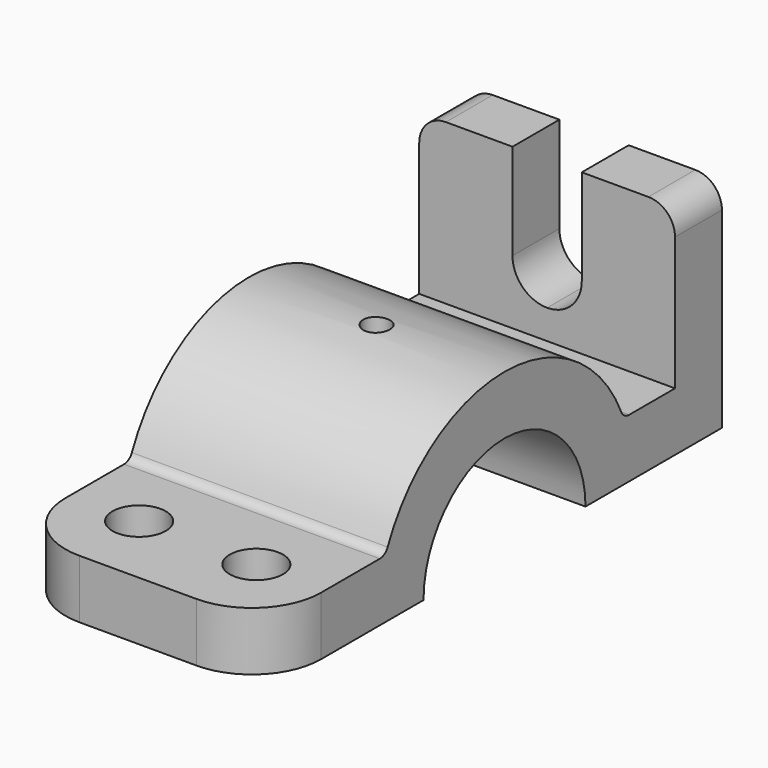
from build123d import *

# Parameters (mm, degrees)
F0_W     = 11
F0_H     = 30
F1_DEPTH = 24
F3_DEPTH = 11
F4_R     = 2.5
F4_R_2   = 5
F5_DEPTH = 41.001
F6_R     = 13
F7_R     = 5
F8_R     = 2


with BuildPart() as f1:
    # F0 (on Right) → F1 (new body, symmetric)
    with BuildSketch(Plane.YZ):
        with Locations((45.5, 26)):
            Rectangle(F0_W, F0_H)
        with BuildLine():
            ThreePointArc((27.9105714739, 11), (29.4730143031, 5.5983415304), (30, 0))
            Line((30, 0), (51, 0))
            Line((51, 0), (51, 11))
            Line((51, 11), (40, 11))
            Line((40, 11), (27.9105714739, 11))
        make_face()
        with BuildLine():
            ThreePointArc((-15.4919333848, 11), (0, 19), (15.4919333848, 11))
            Line((15.4919333848, 11), (27.9105714739, 11))
            ThreePointArc((27.9105714739, 11), (0, 30), (-27.9105714739, 11))
            Line((-27.9105714739, 11), (-15.4919333848, 11))
        make_face()
        with BuildLine():
            ThreePointArc((15.4919333848, 11), (18.1017503893, 5.7729223833), (19, 0))
            Line((19, 0), (30, 0))
            ThreePointArc((30, 0), (29.4730143031, 5.5983415304), (27.9105714739, 11))
            Line((27.9105714739, 11), (15.4919333848, 11))
        make_face()
        with BuildLine():
            Line((-30, 0), (-19, 0))
            ThreePointArc((-19, 0), (-18.1017503893, 5.7729223833), (-15.4919333848, 11))
            Line((-15.4919333848, 11), (-27.9105714739, 11))
            ThreePointArc((-27.9105714739, 11), (-29.4730143031, 5.5983415304), (-30, 0))
        make_face()
        with BuildLine():
            Line((-56, 0), (-30, 0))
            ThreePointArc((-30, 0), (-29.4730143031, 5.5983415304), (-27.9105714739, 11))
            Line((-27.9105714739, 11), (-56, 11))
            Line((-56, 11), (-56, 0))
        make_face()
    extrude(amount=F1_DEPTH, both=True)

    # F2 (on face) → F3 (cut, through all)
    with BuildSketch(Plane(origin=(0, 51, 0), x_dir=(-1, 0, 0), z_dir=(0, 1, 0))):
        with BuildLine():
            ThreePointArc((-6.5, 23), (-4.5961940777, 27.5961940777), (0, 29.5))
            Line((0, 29.5), (0, 41))
            Line((0, 41), (-6.5, 41))
            Line((-6.5, 41), (-6.5, 23))
        make_face()
        with BuildLine():
            ThreePointArc((-6.5, 23), (-4.5961940777, 18.4038059223), (0, 16.5))
            Line((0, 16.5), (0, 29.5))
            ThreePointArc((0, 29.5), (-4.5961940777, 27.5961940777), (-6.5, 23))
        make_face()
        with BuildLine():
            Line((0, 29.5), (0, 16.5))
            ThreePointArc((0, 16.5), (4.5961940777, 18.4038059223), (6.5, 23))
            ThreePointArc((6.5, 23), (4.5961940777, 27.5961940777), (0, 29.5))
        make_face()
        with BuildLine():
            Line((0, 41), (0, 29.5))
            ThreePointArc((0, 29.5), (4.5961940777, 27.5961940777), (6.5, 23))
            Line((6.5, 23), (6.5, 41))
            Line((6.5, 41), (0, 41))
        make_face()
    extrude(amount=-F3_DEPTH, mode=Mode.SUBTRACT)

    # F4 (on Top) → F5 (cut, through all)
    with BuildSketch(Plane.XY):
        Circle(F4_R)
        with Locations((11, -41.955285737)):
            Circle(F4_R_2)
        with Locations((-11, -41.955285737)):
            Circle(F4_R_2)
    extrude(amount=F5_DEPTH, mode=Mode.SUBTRACT)

    # F6
    f6_edges = [f1.edges().sort_by_distance(p)[0] for p in [
        (-24, -56, 5.5),
        (24, -56, 5.5),
    ]]
    fillet(f6_edges, radius=F6_R)

    # F7
    f7_edges = [f1.edges().sort_by_distance(p)[0] for p in [
        (-24, 45.5, 41),
        (24, 45.5, 41),
    ]]
    fillet(f7_edges, radius=F7_R)

    # F8
    f8_edges = [f1.edges().sort_by_distance(p)[0] for p in [
        (0, -27.910571, 11),
        (0, 27.910571, 11),
    ]]
    fillet(f8_edges, radius=F8_R)


solid = f1.part
